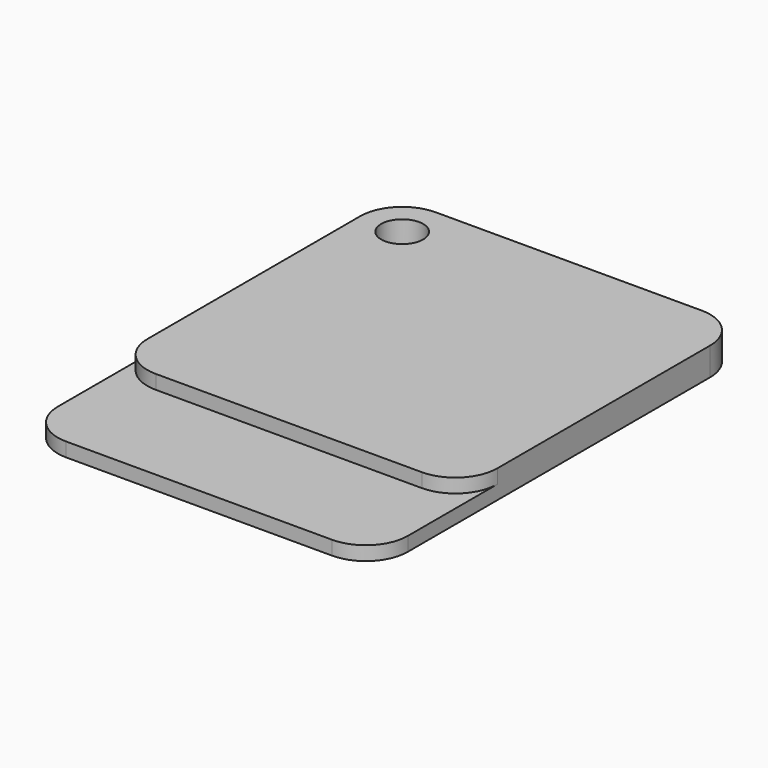
from build123d import *

# Parameters (mm, degrees)
F0_R     = 1.5
F1_DEPTH = 2
F2_DEPTH = 1


with BuildPart() as f1:
    # F0 (on Top) → F1 (new body)
    with BuildSketch(Plane.XY):
        with BuildLine():
            Line((12.028635, 7.386944), (-6.971365, 7.386944))
            ThreePointArc((-6.971365, 7.386944), (-9.092685, 6.508265), (-9.971365, 4.386944))
            Line((-9.971365, 4.386944), (-9.971365, -14.613056))
            ThreePointArc((-9.971365, -14.613056), (-9.092685, -16.734376), (-6.971365, -17.613056))
            Line((-6.971365, -17.613056), (12.028635, -17.613056))
            ThreePointArc((12.028635, -17.613056), (14.149955, -16.734376), (15.028635, -14.613056))
            Line((15.028635, -14.613056), (15.028635, 4.386944))
            ThreePointArc((15.028635, 4.386944), (14.149955, 6.508265), (12.028635, 7.386944))
        make_face()
        with Locations((-6.971365, 4.386944)):
            Circle(F0_R, mode=Mode.SUBTRACT)
    extrude(amount=F1_DEPTH)

    # F0 (on Top) → F2 (join)
    with BuildSketch(Plane.XY):
        with BuildLine():
            ThreePointArc((-6.971365, -17.613056), (-9.092685, -16.734376), (-9.971365, -14.613056))
            Line((-9.971365, -14.613056), (-9.971365, -22.613056))
            ThreePointArc((-9.971365, -22.613056), (-9.092685, -24.734376), (-6.971365, -25.613056))
            Line((-6.971365, -25.613056), (12.028635, -25.613056))
            ThreePointArc((12.028635, -25.613056), (14.149955, -24.734376), (15.028635, -22.613056))
            Line((15.028635, -22.613056), (15.028635, -14.613056))
            ThreePointArc((15.028635, -14.613056), (14.149955, -16.734376), (12.028635, -17.613056))
            Line((12.028635, -17.613056), (-6.971365, -17.613056))
        make_face()
    extrude(amount=F2_DEPTH)


solid = f1.part
